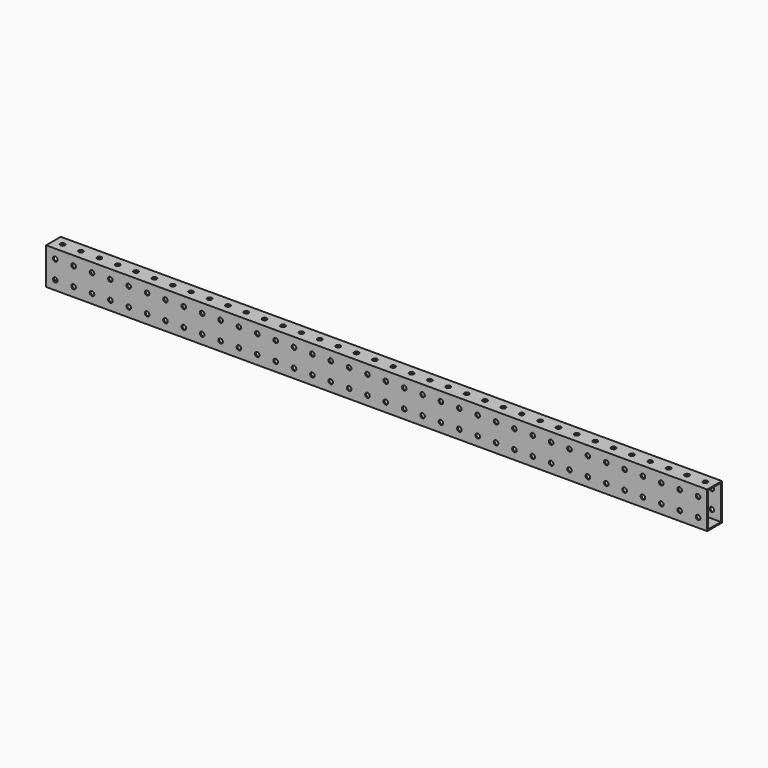
from build123d import *

# Parameters (mm, degrees)
F0_W     = 25.4
F0_H     = 50.8
F0_W_2   = 22.225
F0_H_2   = 47.625
F1_DEPTH = 914.4
F2_R     = 3.175
F3_DEPTH = 50.801
F4_R     = 3.175
F5_DEPTH = 25.4


with BuildPart() as f1:
    # F0 (on Right) → F1 (new body)
    with BuildSketch(Plane.YZ):
        Rectangle(F0_W, F0_H)
        Rectangle(F0_W_2, F0_H_2, mode=Mode.SUBTRACT)
    extrude(amount=F1_DEPTH)

    # F2 (on face) → F3 (cut, through all)
    with BuildSketch(Plane.XY.offset(25.4)):
        with Locations((12.7, 0)):
            Circle(F2_R)
        with Locations((38.1, 0)):
            Circle(F2_R)
        with Locations((63.5, 0)):
            Circle(F2_R)
        with Locations((88.9, 0)):
            Circle(F2_R)
        with Locations((114.3, 0)):
            Circle(F2_R)
        with Locations((139.7, 0)):
            Circle(F2_R)
        with Locations((165.1, 0)):
            Circle(F2_R)
        with Locations((190.5, 0)):
            Circle(F2_R)
        with Locations((215.9, 0)):
            Circle(F2_R)
        with Locations((241.3, 0)):
            Circle(F2_R)
        with Locations((266.7, 0)):
            Circle(F2_R)
        with Locations((292.1, 0)):
            Circle(F2_R)
        with Locations((317.5, 0)):
            Circle(F2_R)
        with Locations((342.9, 0)):
            Circle(F2_R)
        with Locations((368.3, 0)):
            Circle(F2_R)
        with Locations((393.7, 0)):
            Circle(F2_R)
        with Locations((419.1, 0)):
            Circle(F2_R)
        with Locations((444.5, 0)):
            Circle(F2_R)
        with Locations((469.9, 0)):
            Circle(F2_R)
        with Locations((495.3, 0)):
            Circle(F2_R)
        with Locations((520.7, 0)):
            Circle(F2_R)
        with Locations((546.1, 0)):
            Circle(F2_R)
        with Locations((571.5, 0)):
            Circle(F2_R)
        with Locations((596.9, 0)):
            Circle(F2_R)
        with Locations((622.3, 0)):
            Circle(F2_R)
        with Locations((647.7, 0)):
            Circle(F2_R)
        with Locations((673.1, 0)):
            Circle(F2_R)
        with Locations((698.5, 0)):
            Circle(F2_R)
        with Locations((723.9, 0)):
            Circle(F2_R)
        with Locations((749.3, 0)):
            Circle(F2_R)
        with Locations((774.7, 0)):
            Circle(F2_R)
        with Locations((800.1, 0)):
            Circle(F2_R)
        with Locations((825.5, 0)):
            Circle(F2_R)
        with Locations((850.9, 0)):
            Circle(F2_R)
        with Locations((876.3, 0)):
            Circle(F2_R)
        with Locations((901.7, 0)):
            Circle(F2_R)
    extrude(amount=-F3_DEPTH, mode=Mode.SUBTRACT)

    # F4 (on face) → F5 (cut)
    with BuildSketch(Plane.XZ.offset(12.7)):
        with Locations((12.7, 12.7)):
            Circle(F4_R)
        with Locations((12.7, -12.7)):
            Circle(F4_R)
        with Locations((38.1, 12.7)):
            Circle(F4_R)
        with Locations((38.1, -12.7)):
            Circle(F4_R)
        with Locations((63.5, 12.7)):
            Circle(F4_R)
        with Locations((63.5, -12.7)):
            Circle(F4_R)
        with Locations((88.9, 12.7)):
            Circle(F4_R)
        with Locations((88.9, -12.7)):
            Circle(F4_R)
        with Locations((114.3, 12.7)):
            Circle(F4_R)
        with Locations((114.3, -12.7)):
            Circle(F4_R)
        with Locations((139.7, 12.7)):
            Circle(F4_R)
        with Locations((139.7, -12.7)):
            Circle(F4_R)
        with Locations((165.1, 12.7)):
            Circle(F4_R)
        with Locations((165.1, -12.7)):
            Circle(F4_R)
        with Locations((190.5, 12.7)):
            Circle(F4_R)
        with Locations((190.5, -12.7)):
            Circle(F4_R)
        with Locations((215.9, 12.7)):
            Circle(F4_R)
        with Locations((215.9, -12.7)):
            Circle(F4_R)
        with Locations((241.3, 12.7)):
            Circle(F4_R)
        with Locations((241.3, -12.7)):
            Circle(F4_R)
        with Locations((266.7, 12.7)):
            Circle(F4_R)
        with Locations((266.7, -12.7)):
            Circle(F4_R)
        with Locations((292.1, 12.7)):
            Circle(F4_R)
        with Locations((292.1, -12.7)):
            Circle(F4_R)
        with Locations((317.5, 12.7)):
            Circle(F4_R)
        with Locations((317.5, -12.7)):
            Circle(F4_R)
        with Locations((342.9, 12.7)):
            Circle(F4_R)
        with Locations((342.9, -12.7)):
            Circle(F4_R)
        with Locations((368.3, 12.7)):
            Circle(F4_R)
        with Locations((368.3, -12.7)):
            Circle(F4_R)
        with Locations((393.7, 12.7)):
            Circle(F4_R)
        with Locations((393.7, -12.7)):
            Circle(F4_R)
        with Locations((419.1, 12.7)):
            Circle(F4_R)
        with Locations((419.1, -12.7)):
            Circle(F4_R)
        with Locations((444.5, 12.7)):
            Circle(F4_R)
        with Locations((444.5, -12.7)):
            Circle(F4_R)
        with Locations((469.9, 12.7)):
            Circle(F4_R)
        with Locations((469.9, -12.7)):
            Circle(F4_R)
        with Locations((495.3, 12.7)):
            Circle(F4_R)
        with Locations((495.3, -12.7)):
            Circle(F4_R)
        with Locations((520.7, 12.7)):
            Circle(F4_R)
        with Locations((520.7, -12.7)):
            Circle(F4_R)
        with Locations((546.1, 12.7)):
            Circle(F4_R)
        with Locations((546.1, -12.7)):
            Circle(F4_R)
        with Locations((571.5, 12.7)):
            Circle(F4_R)
        with Locations((571.5, -12.7)):
            Circle(F4_R)
        with Locations((596.9, 12.7)):
            Circle(F4_R)
        with Locations((596.9, -12.7)):
            Circle(F4_R)
        with Locations((622.3, 12.7)):
            Circle(F4_R)
        with Locations((622.3, -12.7)):
            Circle(F4_R)
        with Locations((647.7, 12.7)):
            Circle(F4_R)
        with Locations((647.7, -12.7)):
            Circle(F4_R)
        with Locations((673.1, 12.7)):
            Circle(F4_R)
        with Locations((673.1, -12.7)):
            Circle(F4_R)
        with Locations((698.5, 12.7)):
            Circle(F4_R)
        with Locations((698.5, -12.7)):
            Circle(F4_R)
        with Locations((723.9, 12.7)):
            Circle(F4_R)
        with Locations((723.9, -12.7)):
            Circle(F4_R)
        with Locations((749.3, 12.7)):
            Circle(F4_R)
        with Locations((749.3, -12.7)):
            Circle(F4_R)
        with Locations((774.7, 12.7)):
            Circle(F4_R)
        with Locations((774.7, -12.7)):
            Circle(F4_R)
        with Locations((800.1, 12.7)):
            Circle(F4_R)
        with Locations((800.1, -12.7)):
            Circle(F4_R)
        with Locations((825.5, 12.7)):
            Circle(F4_R)
        with Locations((825.5, -12.7)):
            Circle(F4_R)
        with Locations((850.9, 12.7)):
            Circle(F4_R)
        with Locations((850.9, -12.7)):
            Circle(F4_R)
        with Locations((876.3, 12.7)):
            Circle(F4_R)
        with Locations((876.3, -12.7)):
            Circle(F4_R)
        with Locations((901.7, 12.7)):
            Circle(F4_R)
        with Locations((901.7, -12.7)):
            Circle(F4_R)
    extrude(amount=-F5_DEPTH, mode=Mode.SUBTRACT)


solid = f1.part
